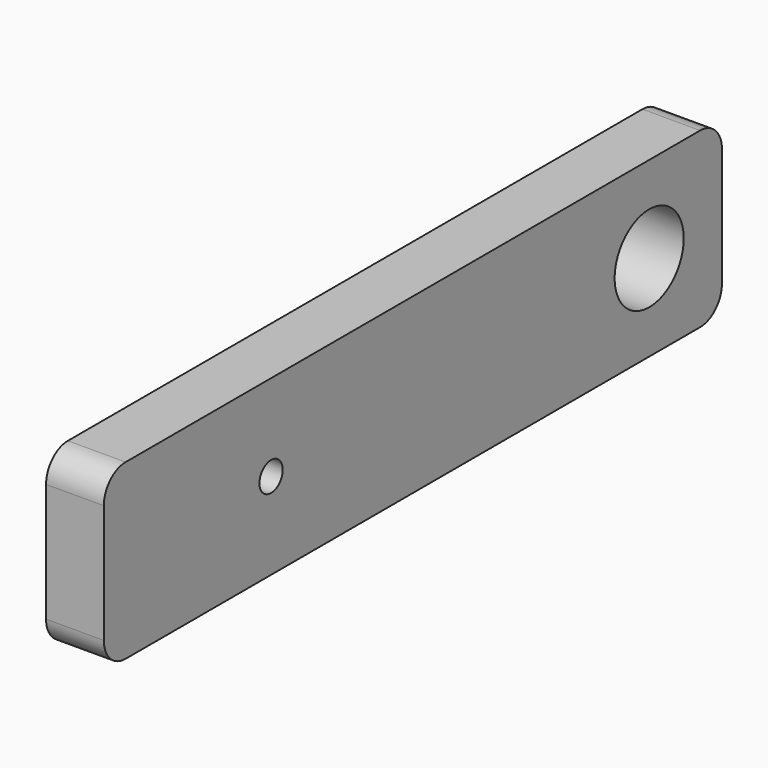
from build123d import *

# Parameters (mm, degrees)
F0_W     = 85
F0_H     = 19.05
F0_R     = 1.6
F0_R_2   = 4.75
F1_DEPTH = 3.175
F2_R     = 1.5
F3_DEPTH = 5
F4_R     = 3


with BuildPart() as f1:
    # F0 (on Right) → F1 (new body, symmetric)
    with BuildSketch(Plane.YZ):
        Rectangle(F0_W, F0_H)
        with Locations((-19.5, 0)):
            Circle(F0_R, mode=Mode.SUBTRACT)
        with Locations((32.5, 0)):
            Circle(F0_R_2, mode=Mode.SUBTRACT)
    extrude(amount=F1_DEPTH, both=True)

    # F2 (on face) → F3 (cut)
    with BuildSketch(Plane(origin=(0, 0, -9.525), x_dir=(1, 0, 0), z_dir=(0, 0, -1))):
        with Locations((0, 25.5)):
            Circle(F2_R)
        with Locations((0, -25.5)):
            Circle(F2_R)
    extrude(amount=-F3_DEPTH, mode=Mode.SUBTRACT)

    # F4
    f4_edges = [f1.edges().sort_by_distance(p)[0] for p in [
        (0, -42.5, -9.525),
        (0, -42.5, 9.525),
        (0, 42.5, 9.525),
        (0, 42.5, -9.525),
    ]]
    fillet(f4_edges, radius=F4_R)


solid = f1.part
